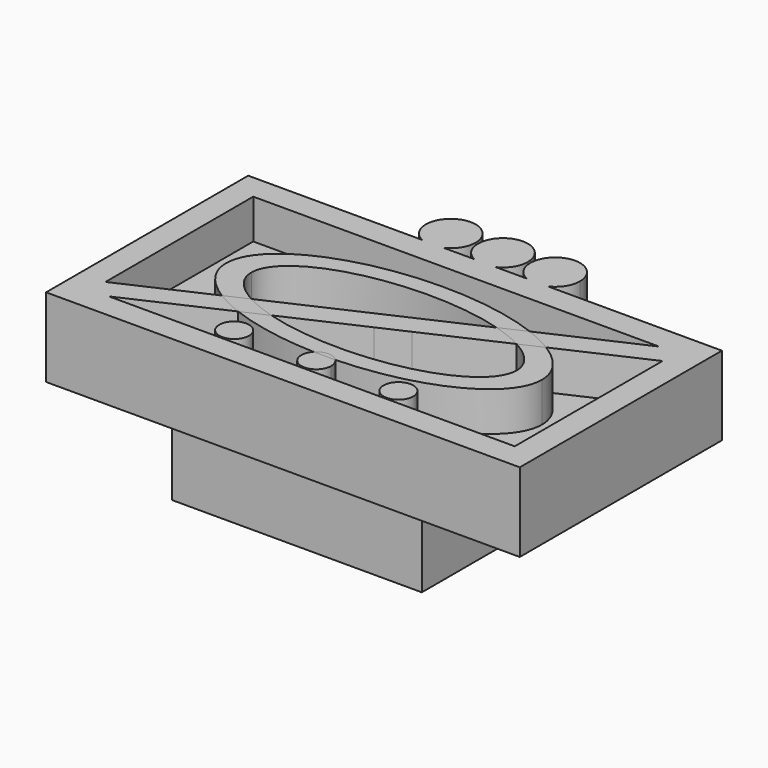
from build123d import *

# Parameters (mm, degrees)
F1_DEPTH  = 3.175
F2_W      = 17.018
F2_H      = 8.128
F3_DEPTH  = 1.5875
F5_DEPTH  = 1.5875
F7_DEPTH  = 1.5875
F8_R      = 0.598574631
F9_DEPTH  = 1.5875
F10_W     = 10.05
F10_H     = 8.76
F11_DEPTH = 3
F12_R     = 3.5
F13_DEPTH = 3.5


with BuildPart() as f1:
    # F0 (on Top) → F1 (new body)
    with BuildSketch(Plane.XY):
        with BuildLine():
            Line((-12.0608898944, 10.16), (-19.05, 10.16))
            Line((-19.05, 10.16), (-19.05, 0))
            Line((-19.05, 0), (0, 0))
            Line((0, 0), (0, 10.16))
            Line((0, 10.16), (-6.9891101056, 10.16))
            ThreePointArc((-6.9891101056, 10.16), (-7.425, 10.06), (-7.8608898944, 10.16))
            Line((-7.8608898944, 10.16), (-9.0891101056, 10.16))
            ThreePointArc((-9.0891101056, 10.16), (-9.525, 10.06), (-9.9608898944, 10.16))
            Line((-9.9608898944, 10.16), (-11.1891101056, 10.16))
            ThreePointArc((-11.1891101056, 10.16), (-11.625, 10.06), (-12.0608898944, 10.16))
        make_face()
        with BuildLine():
            ThreePointArc((-10.625, 11.06), (-12.1560885546, 11.9073163206), (-12.0608898944, 10.16))
            Line((-12.0608898944, 10.16), (-11.1891101056, 10.16))
            ThreePointArc((-11.1891101056, 10.16), (-10.7776836794, 10.5289114454), (-10.625, 11.06))
        make_face()
        with BuildLine():
            Line((-11.1891101056, 10.16), (-12.0608898944, 10.16))
            ThreePointArc((-12.0608898944, 10.16), (-11.625, 10.06), (-11.1891101056, 10.16))
        make_face()
        with BuildLine():
            ThreePointArc((-8.525, 11.06), (-10.0560885546, 11.9073163206), (-9.9608898944, 10.16))
            Line((-9.9608898944, 10.16), (-9.0891101056, 10.16))
            ThreePointArc((-9.0891101056, 10.16), (-8.6776836794, 10.5289114454), (-8.525, 11.06))
        make_face()
        with BuildLine():
            Line((-9.0891101056, 10.16), (-9.9608898944, 10.16))
            ThreePointArc((-9.9608898944, 10.16), (-9.525, 10.06), (-9.0891101056, 10.16))
        make_face()
        with BuildLine():
            ThreePointArc((-7.8608898944, 10.16), (-7.425, 10.06), (-6.9891101056, 10.16))
            Line((-6.9891101056, 10.16), (-7.8608898944, 10.16))
        make_face()
        with BuildLine():
            Line((-7.8608898944, 10.16), (-6.9891101056, 10.16))
            ThreePointArc((-6.9891101056, 10.16), (-6.5776836794, 10.5289114454), (-6.425, 11.06))
            ThreePointArc((-6.425, 11.06), (-7.9560885546, 11.9073163206), (-7.8608898944, 10.16))
        make_face()
    extrude(amount=F1_DEPTH)

    # F2 (on face) → F3 (cut)
    with BuildSketch(Plane.XY.offset(3.175)):
        with Locations((-9.525, 5.08)):
            Rectangle(F2_W, F2_H)
    extrude(amount=-F3_DEPTH, mode=Mode.SUBTRACT)

    # F4 (on face) → F5 (join, through all)
    with BuildSketch(Plane.XY.offset(1.5875)):
        Polygon((-1.716, 9.144), (-9.525, 5.5893209952), (-10.6438879914, 5.08), (-18.034, 1.716), (-18.034, 1.016), (-17.334, 1.016), (-9.525, 4.5706790048), (-8.4061120086, 5.08), (-1.016, 8.444), (-1.016, 9.144), align=None)
    extrude(amount=F5_DEPTH)

    # F6 (on face) → F7 (join, through all)
    with BuildSketch(Plane.XY.offset(1.5875)):
        with BuildLine():
            add(Edge.make_bspline(
                [(-3.175, 5.08), (-3.175, 10.2761524227), (-12.7, 7.6780762114), (-22.225, 5.08), (-12.7, 2.4819237886), (-3.175, -0.1161524227), (-3.175, 5.08)],
                knots=[0, 0, 0, 2.0943951024, 2.0943951024, 4.1887902048, 4.1887902048, 6.2831853072, 6.2831853072, 6.2831853072], degree=2, weights=[1, 0.5, 1, 0.5, 1, 0.5, 1]))
        make_face()
        with BuildLine():
            add(Edge.make_bspline(
                [(-14.859, 5.08), (-14.859, 1.1205318539), (-6.858, 3.1002659269), (1.143, 5.08), (-6.858, 7.0597340731), (-14.859, 9.0394681461), (-14.859, 5.08)],
                knots=[0, 0, 0, 2.0943951024, 2.0943951024, 4.1887902048, 4.1887902048, 6.2831853072, 6.2831853072, 6.2831853072], degree=2, weights=[1, 0.5, 1, 0.5, 1, 0.5, 1]))
        make_face(mode=Mode.SUBTRACT)
    extrude(amount=F7_DEPTH)

    # F8 (on face) → F9 (join, through all)
    with BuildSketch(Plane.XY.offset(1.5875)):
        with Locations((-12.827, 1.6764)):
            Circle(F8_R)
        with Locations((-6.223, 1.6764)):
            Circle(F8_R)
        with Locations((-9.525, 1.6764)):
            Circle(F8_R)
    extrude(amount=F9_DEPTH)

    # F10 (on face) → F11 (join)
    with BuildSketch(Plane(origin=(0, 0, 0), x_dir=(1, 0, 0), z_dir=(0, 0, -1))):
        with Locations((-9.525, -5.08)):
            Rectangle(F10_W, F10_H)
    extrude(amount=F11_DEPTH)

    # F12 (on face) → F13 (cut)
    with BuildSketch(Plane(origin=(0, 0, -3), x_dir=(1, 0, 0), z_dir=(0, 0, -1))):
        with Locations((-9.525, -5.08)):
            Circle(F12_R)
    extrude(amount=-F13_DEPTH, mode=Mode.SUBTRACT)


solid = f1.part
